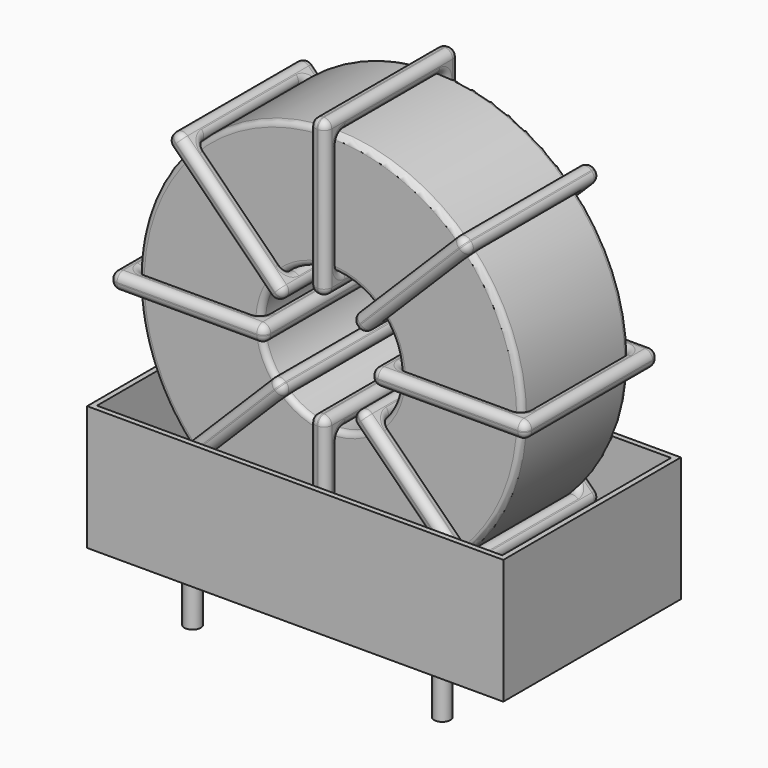
from build123d import *

# Parameters (mm, degrees)
SKETCH001_R   = 0.75
PAD001_DEPTH  = 5
SKETCH_R      = 17.55
SKETCH_R_2    = 6.35
PAD_DEPTH     = 6.12
FILLET_R      = 0.5
SKETCH003_W   = 14.2
SKETCH003_H   = 15.24
SKETCH003_W_2 = 11.2
SKETCH003_H_2 = 12.24
PAD002_DEPTH  = 0.75
FILLET001_R   = 0.705
SKETCH004_W   = 14.2
SKETCH004_H   = 15.24
SKETCH004_W_2 = 11.2
SKETCH004_H_2 = 12.24
PAD003_DEPTH  = 0.75
FILLET002_R   = 0.705
SKETCH005_W   = 14.2
SKETCH005_H   = 15.24
SKETCH005_W_2 = 11.2
SKETCH005_H_2 = 12.24
PAD004_DEPTH  = 0.75
FILLET003_R   = 0.705
SKETCH006_W   = 14.2
SKETCH006_H   = 15.24
SKETCH006_W_2 = 11.2
SKETCH006_H_2 = 12.24
PAD005_DEPTH  = 0.75
FILLET004_R   = 0.705
SKETCH007_W   = 38.1
SKETCH007_H   = 20.32
PAD006_DEPTH  = 0.5
SKETCH008_W   = 38.1
SKETCH008_H   = 20.32
SKETCH008_W_2 = 37.1
SKETCH008_H_2 = 19.32
PAD007_DEPTH  = 11.43


with BuildPart() as pad001:
    # Sketch001 → Pad001 (new body)
    with BuildSketch(Plane.XY.offset(0.75)):
        Circle(SKETCH001_R)
        with Locations((22.86, -15.24)):
            Circle(SKETCH001_R)
        with Locations((0, -15.24)):
            Circle(SKETCH001_R)
        with Locations((22.86, 0)):
            Circle(SKETCH001_R)
    extrude(amount=-PAD001_DEPTH)


with BuildPart() as fillet_body:
    # Sketch → Pad (new body, symmetric)
    with BuildSketch(Plane(origin=(11.43, -7.62, 0), x_dir=(1, 0, 0), z_dir=(0, -1, 0))):
        with Locations((0, 21.05)):
            Circle(SKETCH_R)
        with Locations((0, 21.05)):
            Circle(SKETCH_R_2, mode=Mode.SUBTRACT)
    extrude(amount=PAD_DEPTH, both=True)

    # Fillet
    fillet_edges = [fillet_body.edges().sort_by_distance(p)[0] for p in [
        (5.08, -13.74, 21.05),
        (-6.12, -13.74, 21.05),
        (-6.12, -1.5, 21.05),
    ]]
    fillet(fillet_edges, radius=FILLET_R)


with BuildPart() as fillet001:
    # Sketch003 → Pad002 (new body, symmetric)
    with BuildSketch(Plane(origin=(11.43, 0, 21.05), x_dir=(1, 0, 0), z_dir=(0, 0, -1))):
        with Locations((-11.95, 7.62)):
            Rectangle(SKETCH003_W, SKETCH003_H)
        with Locations((-11.95, 7.62)):
            Rectangle(SKETCH003_W_2, SKETCH003_H_2, mode=Mode.SUBTRACT)
        with Locations((11.95, 7.62)):
            Rectangle(SKETCH003_W, SKETCH003_H)
        with Locations((11.95, 7.62)):
            Rectangle(SKETCH003_W_2, SKETCH003_H_2, mode=Mode.SUBTRACT)
    extrude(amount=PAD002_DEPTH, both=True)

    # Fillet001
    fillet001_edges = [fillet001.edges().sort_by_distance(p)[0] for p in [
        (28.98, -13.74, 21.05),
        (28.98, -1.5, 21.05),
        (28.98, -7.62, 21.8),
        (28.98, -7.62, 20.3),
        (30.48, 0, 21.05),
        (16.28, 0, 21.05),
        (23.38, 0, 21.8),
        (23.38, 0, 20.3),
        (16.28, -15.24, 21.05),
        (16.28, -7.62, 21.8),
        (16.28, -7.62, 20.3),
        (-6.12, -13.74, 21.05),
        (5.08, -13.74, 21.05),
        (-0.52, -13.74, 21.8),
        (-0.52, -13.74, 20.3),
        (5.08, -1.5, 21.05),
        (5.08, -7.62, 21.8),
        (5.08, -7.62, 20.3),
        (6.58, 0, 21.05),
        (-7.62, 0, 21.05),
        (-0.52, 0, 21.8),
        (-0.52, 0, 20.3),
        (-7.62, -15.24, 21.05),
        (-7.62, -7.62, 21.8),
        (-7.62, -7.62, 20.3),
        (17.78, -13.74, 21.05),
        (23.38, -13.74, 21.8),
        (23.38, -13.74, 20.3),
        (-6.12, -1.5, 21.05),
        (-6.12, -7.62, 21.8),
        (-6.12, -7.62, 20.3),
        (-0.52, -1.5, 21.8),
        (-0.52, -1.5, 20.3),
        (6.58, -15.24, 21.05),
        (-0.52, -15.24, 21.8),
        (-0.52, -15.24, 20.3),
        (6.58, -7.62, 21.8),
        (6.58, -7.62, 20.3),
        (30.48, -15.24, 21.05),
        (23.38, -15.24, 21.8),
        (23.38, -15.24, 20.3),
        (30.48, -7.62, 21.8),
        (30.48, -7.62, 20.3),
        (17.78, -1.5, 21.05),
        (17.78, -7.62, 21.8),
        (17.78, -7.62, 20.3),
        (23.38, -1.5, 21.8),
        (23.38, -1.5, 20.3),
    ]]
    fillet(fillet001_edges, radius=FILLET001_R)


with BuildPart() as fillet002:
    # Sketch004 → Pad003 (new body, symmetric)
    with BuildSketch(Plane(origin=(11.43, 0, 21.05), x_dir=(0.707108, 0, 0.707106), z_dir=(0.707106, 0, -0.707108))):
        with Locations((-11.95, 7.62)):
            Rectangle(SKETCH004_W, SKETCH004_H)
        with Locations((-11.95, 7.62)):
            Rectangle(SKETCH004_W_2, SKETCH004_H_2, mode=Mode.SUBTRACT)
        with Locations((11.95, 7.62)):
            Rectangle(SKETCH004_W, SKETCH004_H)
        with Locations((11.95, 7.62)):
            Rectangle(SKETCH004_W_2, SKETCH004_H_2, mode=Mode.SUBTRACT)
    extrude(amount=PAD003_DEPTH, both=True)

    # Fillet002
    fillet002_edges = [fillet002.edges().sort_by_distance(p)[0] for p in [
        (6.939867, -13.74, 16.559877),
        (6.939867, -1.5, 16.559877),
        (6.409537, -7.62, 17.090208),
        (7.470196, -7.62, 16.029546),
        (-2.0404, -15.24, 7.579631),
        (8.000528, -15.24, 17.620536),
        (2.449735, -15.24, 13.130414),
        (3.510394, -15.24, 12.069753),
        (8.000528, 0, 17.620536),
        (7.470199, -7.62, 18.150867),
        (8.530858, -7.62, 17.090205),
        (15.920133, -13.74, 25.540123),
        (23.839738, -13.74, 33.45971),
        (19.349606, -13.74, 30.030247),
        (20.410265, -13.74, 28.969586),
        (23.839738, -1.5, 33.45971),
        (23.309409, -7.62, 33.99004),
        (24.370068, -7.62, 32.929379),
        (14.859472, 0, 24.479464),
        (14.859472, -15.24, 24.479464),
        (14.329142, -7.62, 25.009795),
        (15.389801, -7.62, 23.949133),
        (24.9004, 0, 34.520369),
        (19.349606, 0, 30.030247),
        (20.410265, 0, 28.969586),
        (-0.979738, -13.74, 8.64029),
        (2.449735, -13.74, 13.130414),
        (3.510394, -13.74, 12.069753),
        (15.920133, -1.5, 25.540123),
        (15.389804, -7.62, 26.070454),
        (16.450463, -7.62, 25.009792),
        (19.349606, -1.5, 30.030247),
        (20.410265, -1.5, 28.969586),
        (24.9004, -15.24, 34.520369),
        (24.37007, -7.62, 35.050699),
        (25.430729, -7.62, 33.990038),
        (19.349606, -15.24, 30.030247),
        (20.410265, -15.24, 28.969586),
        (-2.0404, 0, 7.579631),
        (2.449735, 0, 13.130414),
        (3.510394, 0, 12.069753),
        (-2.570729, -7.62, 8.109962),
        (-1.51007, -7.62, 7.049301),
        (-0.979738, -1.5, 8.64029),
        (-1.510068, -7.62, 9.170621),
        (-0.449409, -7.62, 8.10996),
        (2.449735, -1.5, 13.130414),
        (3.510394, -1.5, 12.069753),
    ]]
    fillet(fillet002_edges, radius=FILLET002_R)


with BuildPart() as fillet003:
    # Sketch005 → Pad004 (new body, symmetric)
    with BuildSketch(Plane(origin=(11.43, 0, 21.05), x_dir=(0.707108, 0, -0.707106), z_dir=(-0.707106, 0, -0.707108))):
        with Locations((-11.95, 7.62)):
            Rectangle(SKETCH005_W, SKETCH005_H)
        with Locations((-11.95, 7.62)):
            Rectangle(SKETCH005_W_2, SKETCH005_H_2, mode=Mode.SUBTRACT)
        with Locations((11.95, 7.62)):
            Rectangle(SKETCH005_W, SKETCH005_H)
        with Locations((11.95, 7.62)):
            Rectangle(SKETCH005_W_2, SKETCH005_H_2, mode=Mode.SUBTRACT)
    extrude(amount=PAD004_DEPTH, both=True)

    # Fillet003
    fillet003_edges = [fillet003.edges().sort_by_distance(p)[0] for p in [
        (23.839738, -13.74, 8.64029),
        (23.839738, -1.5, 8.64029),
        (24.370068, -7.62, 9.170621),
        (23.309409, -7.62, 8.10996),
        (24.9004, 0, 7.579631),
        (14.859472, 0, 17.620536),
        (20.410265, 0, 13.130414),
        (19.349606, 0, 12.069753),
        (14.859472, -15.24, 17.620536),
        (15.389801, -7.62, 18.150867),
        (14.329142, -7.62, 17.090205),
        (-0.979738, -13.74, 33.45971),
        (6.939867, -13.74, 25.540123),
        (3.510394, -13.74, 30.030247),
        (2.449735, -13.74, 28.969586),
        (6.939867, -1.5, 25.540123),
        (7.470196, -7.62, 26.070454),
        (6.409537, -7.62, 25.009792),
        (8.000528, 0, 24.479464),
        (-2.0404, 0, 34.520369),
        (3.510394, 0, 30.030247),
        (2.449735, 0, 28.969586),
        (-2.0404, -15.24, 34.520369),
        (-1.51007, -7.62, 35.050699),
        (-2.570729, -7.62, 33.990038),
        (15.920133, -13.74, 16.559877),
        (20.410265, -13.74, 13.130414),
        (19.349606, -13.74, 12.069753),
        (-0.979738, -1.5, 33.45971),
        (-0.449409, -7.62, 33.99004),
        (-1.510068, -7.62, 32.929379),
        (3.510394, -1.5, 30.030247),
        (2.449735, -1.5, 28.969586),
        (8.000528, -15.24, 24.479464),
        (3.510394, -15.24, 30.030247),
        (2.449735, -15.24, 28.969586),
        (8.530858, -7.62, 25.009795),
        (7.470199, -7.62, 23.949133),
        (24.9004, -15.24, 7.579631),
        (20.410265, -15.24, 13.130414),
        (19.349606, -15.24, 12.069753),
        (25.430729, -7.62, 8.109962),
        (24.37007, -7.62, 7.049301),
        (15.920133, -1.5, 16.559877),
        (16.450463, -7.62, 17.090208),
        (15.389804, -7.62, 16.029546),
        (20.410265, -1.5, 13.130414),
        (19.349606, -1.5, 12.069753),
    ]]
    fillet(fillet003_edges, radius=FILLET003_R)


with BuildPart() as fillet004:
    # Sketch006 → Pad005 (new body, symmetric)
    with BuildSketch(Plane(origin=(11.43, 0, 21.05), x_dir=(0, 0, 1), z_dir=(1, 0, 0))):
        with Locations((-11.95, 7.62)):
            Rectangle(SKETCH006_W, SKETCH006_H)
        with Locations((-11.95, 7.62)):
            Rectangle(SKETCH006_W_2, SKETCH006_H_2, mode=Mode.SUBTRACT)
        with Locations((11.95, 7.62)):
            Rectangle(SKETCH006_W, SKETCH006_H)
        with Locations((11.95, 7.62)):
            Rectangle(SKETCH006_W_2, SKETCH006_H_2, mode=Mode.SUBTRACT)
    extrude(amount=PAD005_DEPTH, both=True)

    # Fillet004
    fillet004_edges = [fillet004.edges().sort_by_distance(p)[0] for p in [
        (11.43, -13.74, 14.7),
        (11.43, -1.5, 14.7),
        (10.68, -7.62, 14.7),
        (12.18, -7.62, 14.7),
        (11.43, -15.24, 2),
        (11.43, -15.24, 16.2),
        (10.68, -15.24, 9.1),
        (12.18, -15.24, 9.1),
        (11.43, 0, 16.2),
        (10.68, -7.62, 16.2),
        (12.18, -7.62, 16.2),
        (11.43, -13.74, 27.4),
        (11.43, -13.74, 38.6),
        (10.68, -13.74, 33),
        (12.18, -13.74, 33),
        (11.43, -1.5, 38.6),
        (10.68, -7.62, 38.6),
        (12.18, -7.62, 38.6),
        (11.43, -15.24, 25.9),
        (11.43, -15.24, 40.1),
        (10.68, -15.24, 33),
        (12.18, -15.24, 33),
        (11.43, 0, 40.1),
        (10.68, -7.62, 40.1),
        (12.18, -7.62, 40.1),
        (11.43, -13.74, 3.5),
        (10.68, -13.74, 9.1),
        (12.18, -13.74, 9.1),
        (11.43, -1.5, 27.4),
        (10.68, -7.62, 27.4),
        (12.18, -7.62, 27.4),
        (10.68, -1.5, 33),
        (12.18, -1.5, 33),
        (11.43, 0, 25.9),
        (10.68, 0, 33),
        (12.18, 0, 33),
        (10.68, -7.62, 25.9),
        (12.18, -7.62, 25.9),
        (11.43, 0, 2),
        (10.68, 0, 9.1),
        (12.18, 0, 9.1),
        (10.68, -7.62, 2),
        (12.18, -7.62, 2),
        (11.43, -1.5, 3.5),
        (10.68, -7.62, 3.5),
        (12.18, -7.62, 3.5),
        (10.68, -1.5, 9.1),
        (12.18, -1.5, 9.1),
    ]]
    fillet(fillet004_edges, radius=FILLET004_R)


with BuildPart() as pad006:
    # Sketch007 → Pad006 (new body)
    with BuildSketch(Plane(origin=(11.43, 0, 0.5), x_dir=(1, 0, 0), z_dir=(0, 0, 1))):
        with Locations((0, -7.62)):
            Rectangle(SKETCH007_W, SKETCH007_H)
    extrude(amount=PAD006_DEPTH)


with BuildPart() as pad007:
    # Sketch008 → Pad007 (new body)
    with BuildSketch(Plane(origin=(11.43, 0, 0.5), x_dir=(1, 0, 0), z_dir=(0, 0, 1))):
        with Locations((0, -7.62)):
            Rectangle(SKETCH008_W, SKETCH008_H)
        with Locations((0, -7.62)):
            Rectangle(SKETCH008_W_2, SKETCH008_H_2, mode=Mode.SUBTRACT)
    extrude(amount=PAD007_DEPTH)


solid = Compound([pad001.part, fillet_body.part, fillet001.part, fillet002.part, fillet003.part, fillet004.part, pad006.part, pad007.part])
